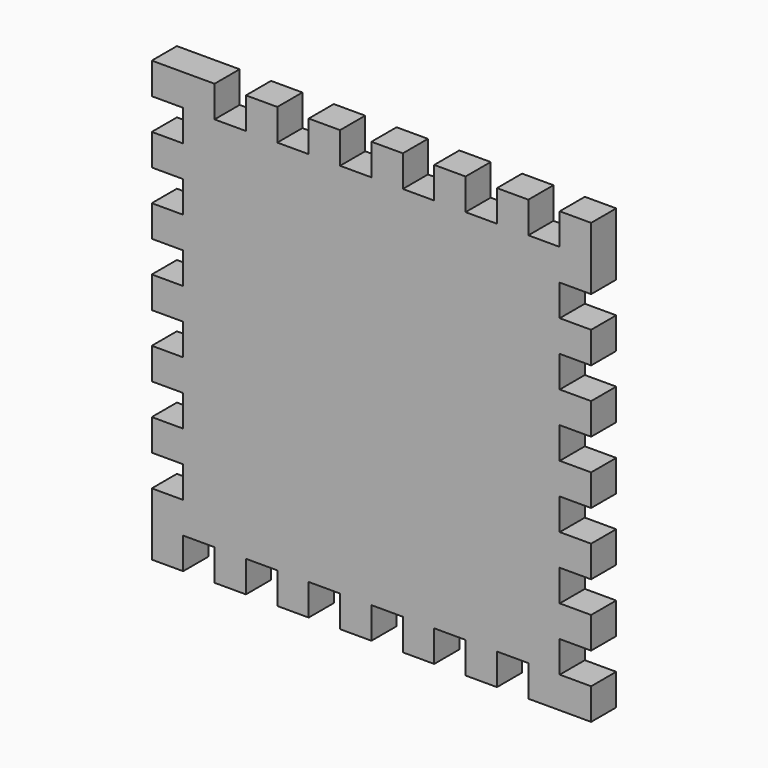
from build123d import *

# Parameters (mm, degrees)
F1_DEPTH = 6.35


with BuildPart() as f1:
    # F0 (on Front) → F1 (new body)
    with BuildSketch(Plane.XZ):
        Polygon((38.1, 44.45), (38.1, 38.1), (31.75, 38.1), (31.75, 44.45), (25.4, 44.45), (25.4, 38.1), (19.05, 38.1), (19.05, 44.45), (12.7, 44.45), (12.7, 38.1), (6.35, 38.1), (6.35, 44.45), (0, 44.45), (0, 38.1), (-6.35, 38.1), (-6.35, 44.45), (-12.7, 44.45), (-12.7, 38.1), (-19.05, 38.1), (-19.05, 44.45), (-25.4, 44.45), (-25.4, 38.1), (-31.75, 38.1), (-31.75, 44.45), (-44.45, 44.45), (-44.45, 38.1), (-38.1, 38.1), (-38.1, 31.75), (-44.45, 31.75), (-44.45, 25.4), (-38.1, 25.4), (-38.1, 19.05), (-44.45, 19.05), (-44.45, 12.7), (-38.1, 12.7), (-38.1, 6.35), (-44.45, 6.35), (-44.45, 0), (-38.1, 0), (-38.1, -6.35), (-44.45, -6.35), (-44.45, -12.7), (-38.1, -12.7), (-38.1, -19.05), (-44.45, -19.05), (-44.45, -25.4), (-38.1, -25.4), (-38.1, -31.75), (-44.45, -31.75), (-44.45, -44.45), (-38.1, -44.45), (-38.1, -38.1), (-31.75, -38.1), (-31.75, -44.45), (-25.4, -44.45), (-25.4, -38.1), (-19.05, -38.1), (-19.05, -44.45), (-12.7, -44.45), (-12.7, -38.1), (-6.35, -38.1), (-6.35, -44.45), (0, -44.45), (0, -38.1), (6.35, -38.1), (6.35, -44.45), (12.7, -44.45), (12.7, -38.1), (19.05, -38.1), (19.05, -44.45), (25.4, -44.45), (25.4, -38.1), (31.75, -38.1), (31.75, -44.45), (44.45, -44.45), (44.45, -38.1), (38.1, -38.1), (38.1, -31.75), (44.45, -31.75), (44.45, -25.4), (38.1, -25.4), (38.1, -19.05), (44.45, -19.05), (44.45, -12.7), (38.1, -12.7), (38.1, -6.35), (44.45, -6.35), (44.45, 0), (38.1, 0), (38.1, 6.35), (44.45, 6.35), (44.45, 12.7), (38.1, 12.7), (38.1, 19.05), (44.45, 19.05), (44.45, 25.4), (38.1, 25.4), (38.1, 31.75), (44.45, 31.75), (44.45, 44.45), align=None)
    extrude(amount=F1_DEPTH)


solid = f1.part
